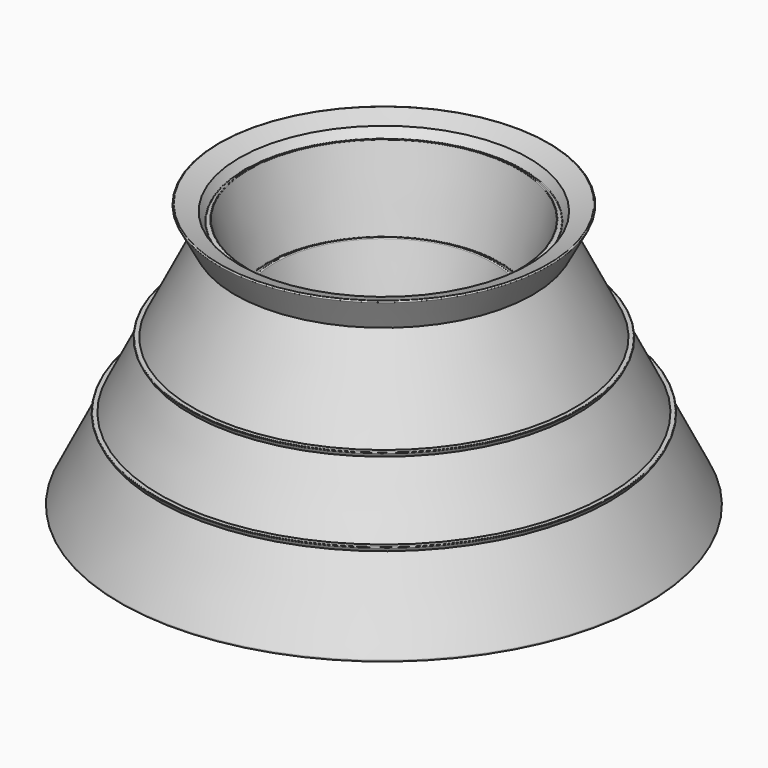
from build123d import *

# Parameters (mm, degrees)
F2_R     = 1.6
F3_DEPTH = 20
F4_DEPTH = 1


with BuildPart() as f1:
    # F0 (on Front) → F1 (revolve)
    with BuildSketch(Plane.XZ):
        with BuildLine():
            ThreePointArc((-30.810208, 50), (-30.981707, 49.902899), (-30.986679, 49.705882))
            Line((-30.986679, 49.705882), (-27.943542, 44))
            Line((-27.943542, 44), (-35.884869, 27.936285))
            Line((-35.884869, 27.936285), (-36.624995, 27.936285))
            ThreePointArc((-36.624995, 27.936285), (-36.710744, 27.887734), (-36.71323, 27.789226))
            Line((-36.71323, 27.789226), (-36.321073, 27.053932))
            Line((-36.321073, 27.053932), (-42.029223, 15.507489))
            Line((-42.029223, 15.507489), (-42.769348, 15.507489))
            ThreePointArc((-42.769348, 15.507489), (-42.855097, 15.458939), (-42.857583, 15.360431))
            Line((-42.857583, 15.360431), (-42.465426, 14.625136))
            Line((-42.465426, 14.625136), (-49.552882, 0.288633))
            ThreePointArc((-49.552882, 0.288633), (-49.543487, 0.09447), (-49.373595, 0))
            Line((-49.373595, 0), (-16, 0))
            Line((-16, 0), (-16, 9.716626))
            Line((-16, 9.716626), (-16, 17.64925))
            Line((-16, 17.64925), (-15.121684, 18.527566))
            Line((-15.121684, 18.527566), (-15.543637, 19.716084))
            ThreePointArc((-15.543637, 19.716084), (-15.657737, 19.851288), (-15.834462, 19.843074))
            Line((-15.834462, 19.843074), (-16.805274, 19.306906))
            ThreePointArc((-16.805274, 19.306906), (-16.893637, 19.302799), (-16.950687, 19.370401))
            Line((-16.950687, 19.370401), (-20.462992, 33.550935))
            ThreePointArc((-20.462992, 33.550935), (-20.577092, 33.686139), (-20.753816, 33.677924))
            Line((-20.753816, 33.677924), (-21.724629, 33.141757))
            ThreePointArc((-21.724629, 33.141757), (-21.812991, 33.137649), (-21.870041, 33.205251))
            Line((-21.870041, 33.205251), (-25.367167, 47.324501))
            ThreePointArc((-25.367167, 47.324501), (-25.421936, 47.391073), (-25.508139, 47.390304))
            Line((-25.508139, 47.390304), (-26.0908, 47.105571))
            ThreePointArc((-26.0908, 47.105571), (-26.162984, 47.099499), (-26.22033, 47.143759))
            Line((-26.22033, 47.143759), (-27.171554, 48.720422))
            Line((-27.171554, 48.720422), (-30.810208, 50))
        make_face()
    revolve(axis=Axis((0, 0, 1.064006), (0, 0, -1)))

    # F2 (on face) → F3 (cut)
    with BuildSketch(Plane(origin=(0, 0, 0), x_dir=(1, 0, 0), z_dir=(0, 0, -1))):
        with Locations((33, 0)):
            Circle(F2_R)
        with Locations((0, -33)):
            Circle(F2_R)
        with Locations((0, 33)):
            Circle(F2_R)
        with Locations((-33, 0)):
            Circle(F2_R)
    extrude(amount=-F3_DEPTH, mode=Mode.SUBTRACT)

    # F2 (on face) → F4 (cut)
    with BuildSketch(Plane(origin=(0, 0, 0), x_dir=(1, 0, 0), z_dir=(0, 0, -1))):
        with Locations((33, 0)):
            Circle(F2_R)
        with Locations((0, 33)):
            Circle(F2_R)
        with Locations((0, -33)):
            Circle(F2_R)
        with Locations((-33, 0)):
            Circle(F2_R)
    extrude(amount=-F4_DEPTH, mode=Mode.SUBTRACT)


solid = f1.part
